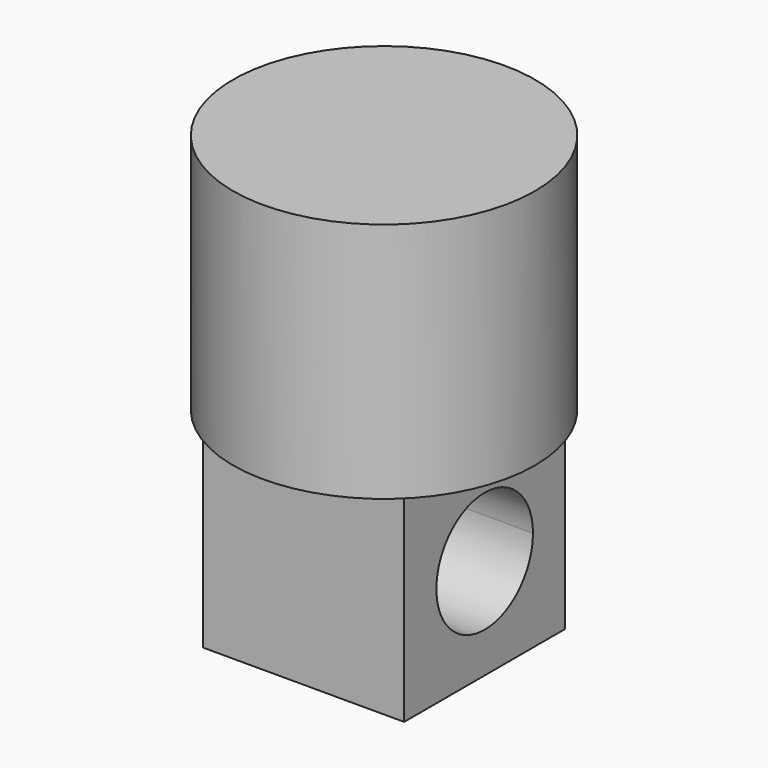
from build123d import *

# Parameters (mm, degrees)
F0_R          = 37.5
F1_DEPTH      = 60
F3_DEPTH      = 25
F3_DEPTH_BACK = 25


with BuildPart() as f1:
    # F0 (on Top) → F1 (new body)
    with BuildSketch(Plane.XY):
        Circle(F0_R)
    extrude(amount=F1_DEPTH)

    # F2 (on Right) → F3 (join, two sides)
    with BuildSketch(Plane.YZ) as f3_sk:
        with BuildLine():
            ThreePointArc((15, -25), (10.606602, -14.393398), (0, -10))
            ThreePointArc((0, -10), (-10.606602, -35.606602), (15, -25))
        make_face()
        Polygon((25, 0), (0, 0), (-25, 0), (-25, -50), (25, -50), align=None)
        with BuildLine():
            ThreePointArc((15, -25), (-10.606602, -35.606602), (0, -10))
            ThreePointArc((0, -10), (10.606602, -14.393398), (15, -25))
        make_face(mode=Mode.SUBTRACT)
    extrude(amount=F3_DEPTH)
    extrude(f3_sk.sketch, amount=-F3_DEPTH_BACK)


solid = f1.part
